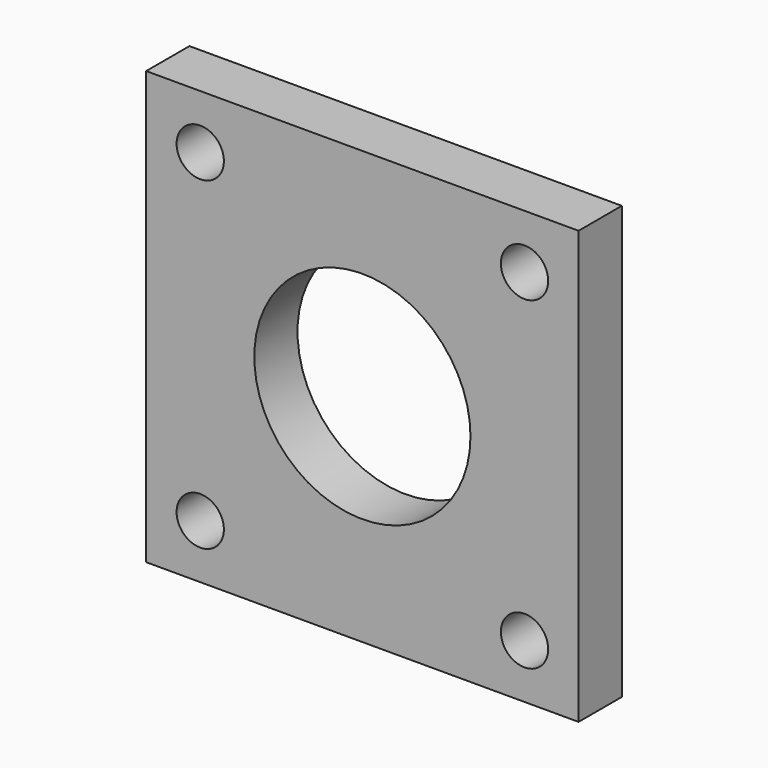
from build123d import *

# Parameters (mm, degrees)
F0_R     = 1.389
F0_R_2   = 6.35
F1_DEPTH = 3.175


with BuildPart() as f1:
    # F0 (on Front) → F1 (new body)
    with BuildSketch(Plane.XZ):
        Polygon((0, -3.175), (0, 0), (-3.175, 0), (-22.225, 0), (-25.4, 0), (-25.4, -3.175), (-25.4, -22.225), (-25.4, -25.4), (-22.225, -25.4), (-3.175, -25.4), (0, -25.4), (0, -22.225), align=None)
        with Locations((-22.225, -22.225)):
            Circle(F0_R, mode=Mode.SUBTRACT)
        with Locations((-12.7, -12.7)):
            Circle(F0_R_2, mode=Mode.SUBTRACT)
        with Locations((-3.175, -22.225)):
            Circle(F0_R, mode=Mode.SUBTRACT)
        with Locations((-22.225, -3.175)):
            Circle(F0_R, mode=Mode.SUBTRACT)
        with Locations((-3.175, -3.175)):
            Circle(F0_R, mode=Mode.SUBTRACT)
    extrude(amount=F1_DEPTH)


solid = f1.part
